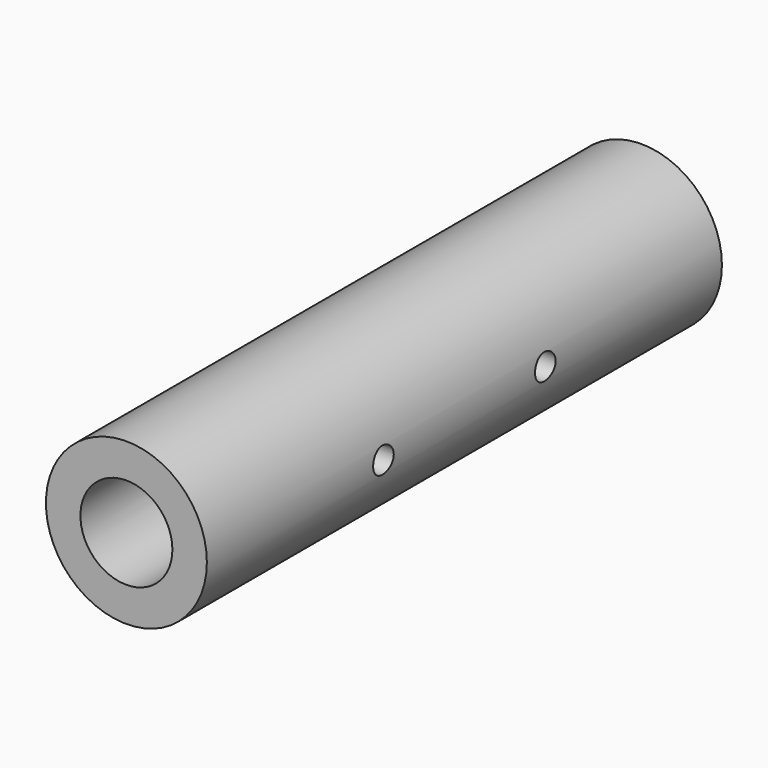
from build123d import *

# Parameters (mm, degrees)
F0_R          = 11.1125
F0_R_2        = 6.35
F1_DEPTH      = 44.45
F2_R          = 1.778
F3_DEPTH      = 11.1135
F3_DEPTH_BACK = 11.1135


with BuildPart() as f1:
    # F0 (on Front) → F1 (new body, symmetric)
    with BuildSketch(Plane.XZ):
        Circle(F0_R)
        Circle(F0_R_2, mode=Mode.SUBTRACT)
    extrude(amount=F1_DEPTH, both=True)

    # F2 (on Right) → F3 (cut, two sides)
    with BuildSketch(Plane.YZ) as f3_sk:
        with Locations((13.97, 0)):
            Circle(F2_R)
        with Locations((-13.97, 0)):
            Circle(F2_R)
    extrude(amount=-F3_DEPTH, mode=Mode.SUBTRACT)
    extrude(f3_sk.sketch, amount=F3_DEPTH_BACK, mode=Mode.SUBTRACT)


solid = f1.part
